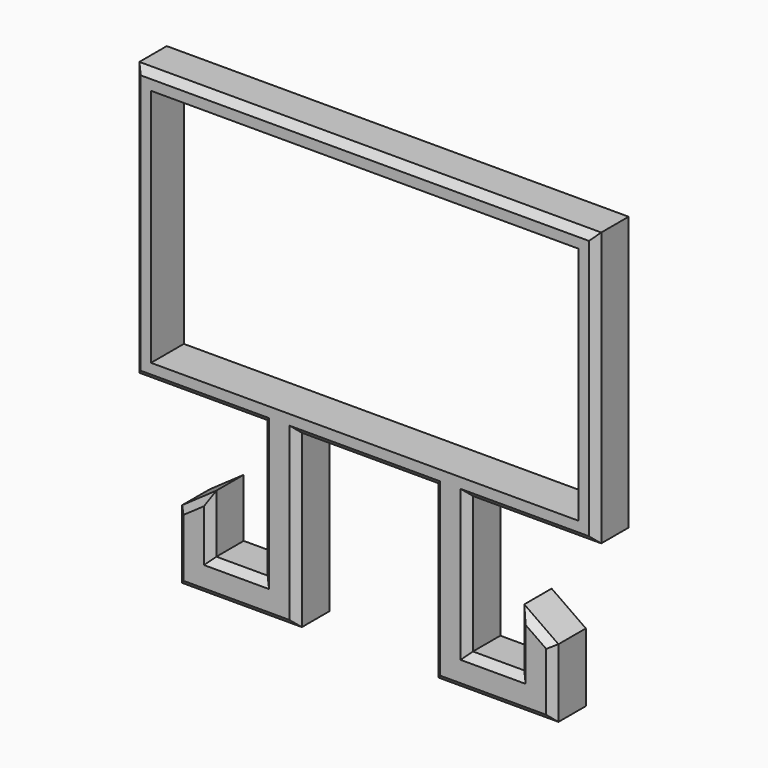
from build123d import *

# Parameters (mm, degrees)
F0_W     = 125
F0_H     = 70
F1_DEPTH = 12
F2_SIZE  = 2


with BuildPart() as f1:
    # F0 (on Front) → F1 (new body)
    with BuildSketch(Plane.XZ):
        Polygon((21.6168733004, 69.3535781093), (-113.3831266996, 69.3535781093), (-113.3831266996, -10.6464218907), (-75.8831266996, -10.6464218907), (-65.8831266996, -10.6464218907), (-25.8831266996, -10.6464218907), (-15.8831266996, -10.6464218907), (21.6168733004, -10.6464218907), align=None)
        with Locations((-45.8831266996, 29.3535781093)):
            Rectangle(F0_W, F0_H, mode=Mode.SUBTRACT)
        Polygon((-65.8831266996, -10.6464218907), (-75.8831266996, -10.6464218907), (-75.8831266996, -50.6464218907), (-90.8831266996, -50.6464218907), (-90.8831266996, -40.6464218907), (-100.8831266996, -40.6464218907), (-100.8831266996, -60.6464218907), (-65.8831266996, -60.6464218907), align=None)
        Polygon((-15.8831266996, -50.6464218907), (-15.8831266996, -10.6464218907), (-25.8831266996, -10.6464218907), (-25.8831266996, -60.6464218907), (9.1168733004, -60.6464218907), (9.1168733004, -40.6464218907), (-0.8831266996, -40.6464218907), (-0.8831266996, -50.6464218907), align=None)
        Polygon((-100.8831266996, -40.6464218907), (-90.8831266996, -40.6464218907), (-90.8831266996, -33.6464218907), align=None)
        Polygon((-0.8831266996, -33.6464218907), (-0.8831266996, -40.6464218907), (9.1168733004, -40.6464218907), align=None)
    extrude(amount=F1_DEPTH)

    # F2
    f2_edges = [f1.edges().sort_by_distance(p)[0] for p in [
        (21.616873, -12, 29.353578),
        (-45.883127, -12, 69.353578),
        (-113.383127, -12, 29.353578),
        (-94.633127, -12, -10.646422),
        (-75.883127, -12, -30.646422),
        (-83.383127, -12, -50.646422),
        (-90.883127, -12, -42.146422),
        (-95.883127, -12, -37.146422),
        (-100.883127, -12, -50.646422),
        (-83.383127, -12, -60.646422),
        (-65.883127, -12, -35.646422),
        (-45.883127, -12, -10.646422),
        (-25.883127, -12, -35.646422),
        (-8.383127, -12, -60.646422),
        (9.116873, -12, -50.646422),
        (4.116873, -12, -37.146422),
        (-0.883127, -12, -42.146422),
        (-8.383127, -12, -50.646422),
        (-15.883127, -12, -30.646422),
        (2.866873, -12, -10.646422),
    ]]
    chamfer(f2_edges, length=F2_SIZE)


solid = f1.part
